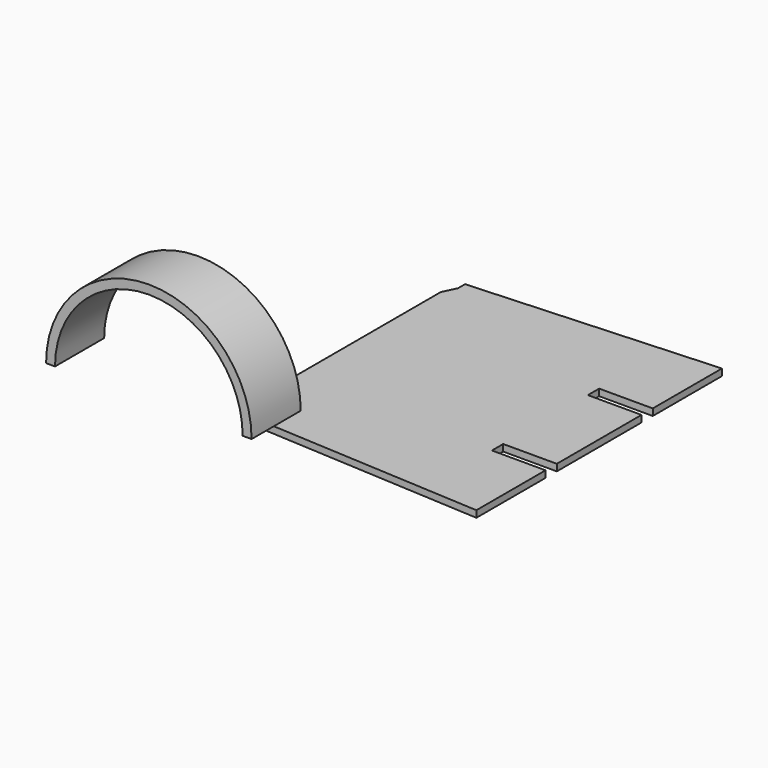
from build123d import *

# Parameters (mm, degrees)
F1_DEPTH = 1.5
F2_W     = 12
F2_H     = 3.15
F3_DEPTH = 1.5
F5_DEPTH = 1.5
F7_DEPTH = 37.875
F8_DEPTH = 62


with BuildPart() as f1:
    # F0 (on Top) → F1 (new body)
    with BuildSketch(Plane.XY):
        Polygon((0, -34.35), (0, 34.35), (-55, 31.225), (-55, -31.225), align=None)
    extrude(amount=-F1_DEPTH)

    # F2 (on face) → F3 (cut, through all)
    with BuildSketch(Plane.XY):
        with Locations((-6, 13.425)):
            Rectangle(F2_W, F2_H)
        with Locations((-6, -13.425)):
            Rectangle(F2_W, F2_H)
    extrude(amount=-F3_DEPTH, mode=Mode.SUBTRACT)

    # F4 (on Top) → F5 (join, through all)
    with BuildSketch(Plane.XY):
        Polygon((-55, -29.25), (-55, 29.25), (-56.45, 26.25), (-56.45, -26.25), align=None)
    extrude(amount=-F5_DEPTH)

    # F6 (on Front) → F7 (join, symmetric)
    with BuildSketch(Plane.XZ):
        with BuildLine():
            ThreePointArc((-91.5, 0), (-70.5, 21), (-49.5, 0))
            Line((-49.5, 0), (-47.5, 0))
            ThreePointArc((-47.5, 0), (-70.5, 23), (-93.5, 0))
            Line((-93.5, 0), (-91.5, 0))
        make_face()
    extrude(amount=F7_DEPTH, both=True)

    # F7_face (on face) → F8 (cut)
    with BuildSketch(Plane(origin=(-70.5, 37.875, 14.015281), x_dir=(1, 0, 0), z_dir=(0, 1, 0))):
        with BuildLine():
            Line((-21, 14.015281), (-23, 14.015281))
            ThreePointArc((-23, 14.015281), (0, -8.984719), (23, 14.015281))
            Line((23, 14.015281), (21, 14.015281))
            ThreePointArc((21, 14.015281), (0, -6.984719), (-21, 14.015281))
        make_face()
    extrude(amount=-F8_DEPTH, mode=Mode.SUBTRACT)


solid = f1.part
